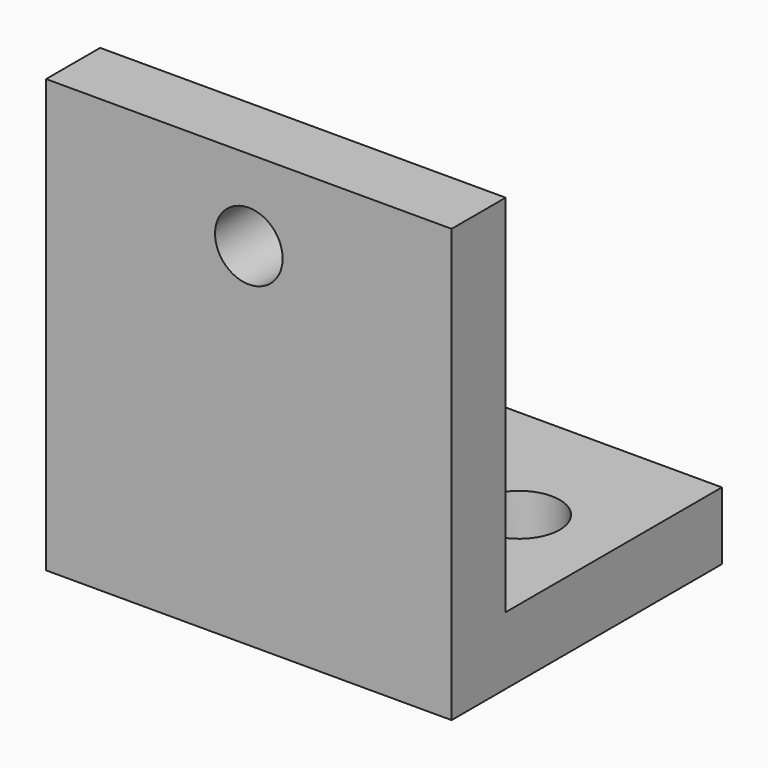
from build123d import *

# Parameters (mm, degrees)
F0_W     = 30
F0_H     = 32
F1_DEPTH = 5
F2_W     = 30
F2_H     = 5
F3_DEPTH = 20
F4_R     = 3
F5_DEPTH = 25
F6_R     = 2.5
F7_DEPTH = 25


with BuildPart() as f1:
    # F0 (on Front) → F1 (new body)
    with BuildSketch(Plane.XZ):
        with Locations((15, 16)):
            Rectangle(F0_W, F0_H)
    extrude(amount=F1_DEPTH)

    # F2 (on face) → F3 (join)
    with BuildSketch(Plane(origin=(0, 0, 0), x_dir=(-1, 0, 0), z_dir=(0, 1, 0))):
        with Locations((-15, 2.5)):
            Rectangle(F2_W, F2_H)
    extrude(amount=F3_DEPTH)

    # F4 (on face) → F5 (cut)
    with BuildSketch(Plane.XY.offset(5)):
        with Locations((23, 10)):
            Circle(F4_R)
        with Locations((7, 10)):
            Circle(F4_R)
    extrude(amount=-F5_DEPTH, mode=Mode.SUBTRACT)

    # F6 (on face) → F7 (cut)
    with BuildSketch(Plane.XZ.offset(5)):
        with Locations((15, 26)):
            Circle(F6_R)
    extrude(amount=-F7_DEPTH, mode=Mode.SUBTRACT)


solid = f1.part
